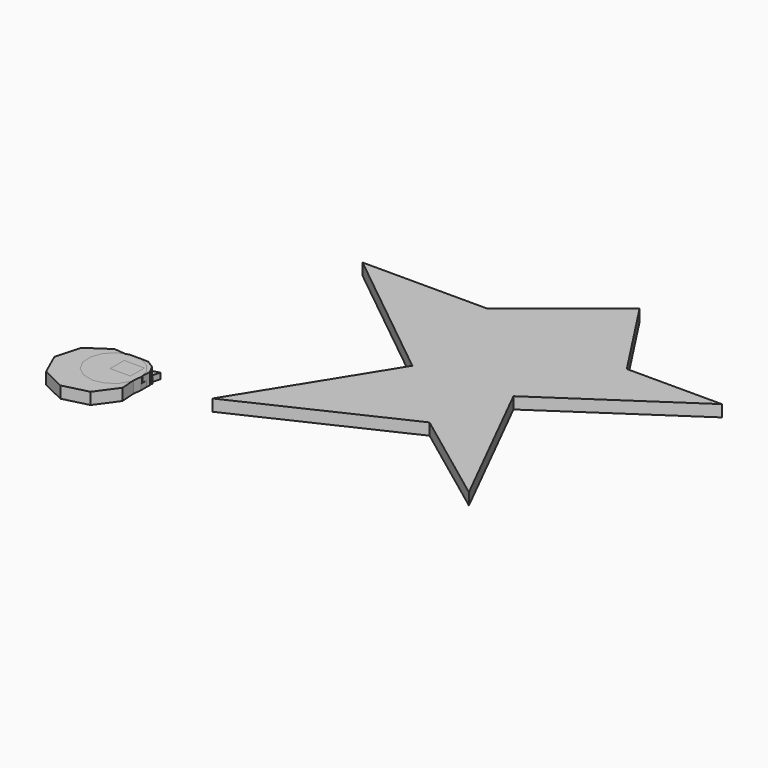
from build123d import *

# Parameters (mm, degrees)
PAD_DEPTH    = 10
PAD001_DEPTH = 10
PAD002_DEPTH = 10
PAD003_DEPTH = 5
PAD004_DEPTH = 5
PAD005_DEPTH = 5
SKETCH006_W  = 17.330512
SKETCH006_H  = 14.988543
PAD006_DEPTH = 10
PAD007_DEPTH = 5
PAD008_DEPTH = 5
PAD009_DEPTH = 10


with BuildPart() as body:
    # Sketch → Pad (new body)
    with BuildSketch(Plane.XY):
        Polygon((18.167238, -26.824047), (31.159077, -8.870737), (29.571237, 13.23329), (14.146687, 29.145313), (-7.897255, 31.41992), (-26.245984, 18.992798), (-32.313925, -2.321266), (-23.261822, -22.549184), (-3.325253, -32.226088), align=None)
    extrude(amount=PAD_DEPTH)


with BuildPart() as body_1:
    # Body placement: moved
    add(body.part.moved(Location((-31.159077, -31.41992, 0))))


with BuildPart() as body001:
    # Sketch001 → Pad001 (new body)
    with BuildSketch(Plane.XY):
        Polygon((-14.146512, 4.385867), (-14.444172, -3.274984), (-10.871528, -10.058305), (-4.385867, -14.146512), (3.274984, -14.444172), (10.058305, -10.871528), (14.146512, -4.385867), (14.444172, 3.274984), (10.871528, 10.058305), (4.385867, 14.146512), (-3.274984, 14.444172), (-10.058305, 10.871528), align=None)
    extrude(amount=PAD001_DEPTH)


with BuildPart() as body001_1:
    # Body001 placement: moved
    add(body001.part.moved(Location((-14.444172, -14.444172, 0))))


with BuildPart() as body002:
    # Sketch002 → Pad002 (new body)
    with BuildSketch(Plane.XY):
        Polygon((5.168737, 19.66088), (-4.125931, 19.882535), (-12.707188, 16.304545), (-19.091257, 9.545577), (-22.174274, 0.774318), (-21.423157, -8.492602), (-16.967783, -16.652849), (-9.578524, -22.29544), (-0.533051, -24.444722), (8.60459, -22.729063), (16.25442, -17.445117), (21.093714, -9.506527), (22.285712, -0.285945), (19.624308, 8.622305), (13.569683, 15.677905), align=None)
    extrude(amount=PAD002_DEPTH)


with BuildPart() as body002_1:
    # Body002 placement: moved
    add(body002.part.moved(Location((-22.285712, -19.882535, 0))))


with BuildPart() as body003:
    # Sketch003 → Pad003 (new body)
    with BuildSketch(Plane.XY):
        Polygon((7.399518, 7.664609), (-10.337505, 2.575866), (2.937987, -10.240475), align=None)
    extrude(amount=PAD003_DEPTH)


with BuildPart() as body003_1:
    # Body003 placement: moved
    add(body003.part.moved(Location((-7.399518, -7.664609, 0))))


with BuildPart() as body004:
    # Sketch004 → Pad004 (new body)
    with BuildSketch(Plane.XY):
        Polygon((0, 10.25955), (-8.885031, -5.129775), (8.885031, -5.129775), align=None)
    extrude(amount=PAD004_DEPTH)


with BuildPart() as body004_1:
    # Body004 placement: moved
    add(body004.part.moved(Location((-8.885031, -10.25955, 0))))


with BuildPart() as body005:
    # Sketch005 → Pad005 (new body)
    with BuildSketch(Plane.XY):
        Polygon((8.917991, 0), (13.337694, 8.722222), (4.077364, 17.140703), (-8.024202, 17.140703), (-17.600224, 1.776977), (-4.762044, -10.850743), (0.920433, -10.850743), align=None)
    extrude(amount=PAD005_DEPTH)


with BuildPart() as body005_1:
    # Body005 placement: moved
    add(body005.part.moved(Location((-13.337694, -17.140703, 0))))


with BuildPart() as body006:
    # Sketch006 → Pad006 (new body)
    with BuildSketch(Plane.XY):
        with Locations((-1.850273, 0.820157)):
            Rectangle(SKETCH006_W, SKETCH006_H)
    extrude(amount=PAD006_DEPTH)

    # Sketch007 → Pad007 (join)
    with BuildSketch(Plane.XY):
        Polygon((10.019646, 10.457861), (4.573891, 15.162398), (-2.314561, 17.24522), (-9.454634, 16.346186), (-15.611746, 12.620748), (-19.721276, 6.713068), (-21.072648, -0.355362), (-19.432198, -7.362347), (-15.083575, -13.096315), (-8.778695, -16.565812), (-1.60773, -17.170929), (5.189397, -14.807036), (10.437399, -9.882873), (13.22885, -3.24987), (13.081082, 3.945064), align=None)
    extrude(amount=PAD007_DEPTH)


with BuildPart() as body006_1:
    # Body006 placement: moved
    add(body006.part.moved(Location((-13.22885, -17.24522, 0))))


with BuildPart() as body007:
    # Sketch008 → Pad008 (new body)
    with BuildSketch(Plane.XY):
        Polygon((7.007695, -11.784118), (11.767051, -2.863674), (10.374145, 7.150596), (3.361021, 14.433582), (-6.593548, 16.203429), (-15.687253, 11.784118), (-20.446609, 2.863674), (-19.053703, -7.150596), (-12.040579, -14.433582), (-2.086011, -16.203429), align=None)
    extrude(amount=PAD008_DEPTH)


with BuildPart() as body007_1:
    # Body007 placement: moved
    add(body007.part.moved(Location((-11.767051, -16.203429, 0))))


with BuildPart() as board_body:
    # Sketch009 → Pad009 (new body)
    with BuildSketch(Plane.XY):
        Polygon((-38.693619, 95.521584), (-117.703079, 32.091431), (-224.532791, 32.091431), (-105.462189, -63.61018), (-180.020416, -183.79361), (-45.370419, -120.363464), (38.090302, -182.680801), (-25.339891, -55.820522), (90.392357, 22.076147), (9.157263, 22.076147), align=None)
    extrude(amount=-PAD009_DEPTH)


with BuildPart() as board_body_1:
    # Body008 placement: moved
    add(board_body.part.moved(Location((224.532791, 183.79361, 0))))


solid = Compound([body_1.part, body001_1.part, body002_1.part, body003_1.part, body004_1.part, body005_1.part, body006_1.part, body007_1.part, board_body_1.part])
